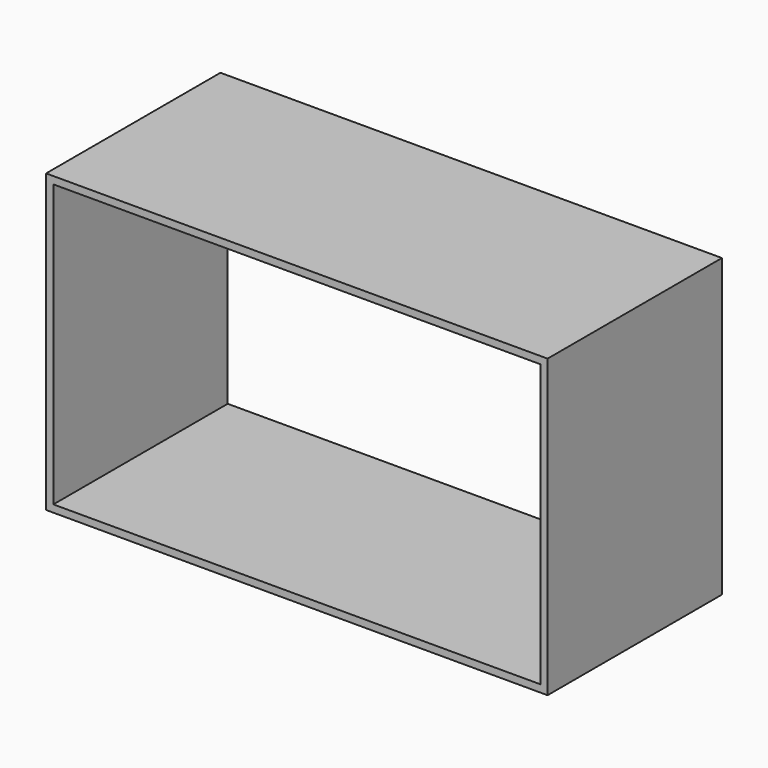
from build123d import *

# Parameters (mm, degrees)
F0_W     = 1100
F0_H     = 650
F1_DEPTH = 478


with BuildPart() as f1:
    # F0 (on Front) → F1 (new body)
    with BuildSketch(Plane.XZ):
        Rectangle(F0_W, F0_H)
        Polygon((-534, 103), (-534, 309), (-234, 309), (-218, 309), (-202, 309), (202, 309), (218, 309), (234, 309), (534, 309), (534, 103), (534, -103), (534, -309), (234, -309), (218, -309), (202, -309), (-202, -309), (-218, -309), (-234, -309), (-534, -309), (-534, -103), align=None, mode=Mode.SUBTRACT)
    extrude(amount=-F1_DEPTH)


solid = f1.part
